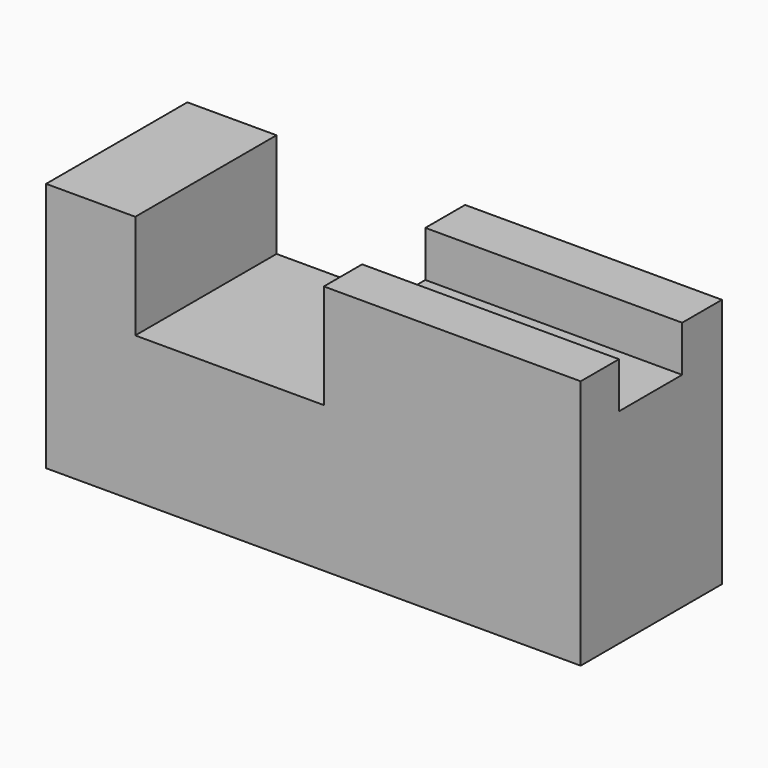
from build123d import *

# Parameters (mm, degrees)
F1_DEPTH = 25.4
F3_DEPTH = 25.4
F4_DEPTH = 25.4


with BuildPart() as f1:
    # F0 (on Front) → F1 (new body)
    with BuildSketch(Plane.XZ):
        Polygon((12.8309270367, 36.0182486475), (0, 36.0182486475), (0, 0), (51.5070110559, 0), (51.5070110559, 36.0182486475), (39.9591773748, 36.0182486475), (39.9591773748, 20.9877323359), (12.8309270367, 20.9877323359), align=None)
    extrude(amount=F1_DEPTH)

    # F2 (on face) → F3 (join)
    with BuildSketch(Plane.YZ.offset(51.5070110559)):
        Polygon((-18.5131952167, 29.4194854796), (-18.5131952167, 36.0182486475), (-25.4, 36.0182486475), (-25.4, 0), (0, 0), (0, 36.0182486475), (-7.1486602537, 36.0182486475), (-7.1486602537, 29.4194854796), align=None)
    extrude(amount=F3_DEPTH)

    # F4 (cut): a face of the model
    f4_faces = [f1.faces().sort_by_distance(p)[0] for p in [
        (51.5070110559, -12.8309277352, 32.7188670635),
    ]]
    extrude(f4_faces, amount=-F4_DEPTH, mode=Mode.SUBTRACT)


solid = f1.part
